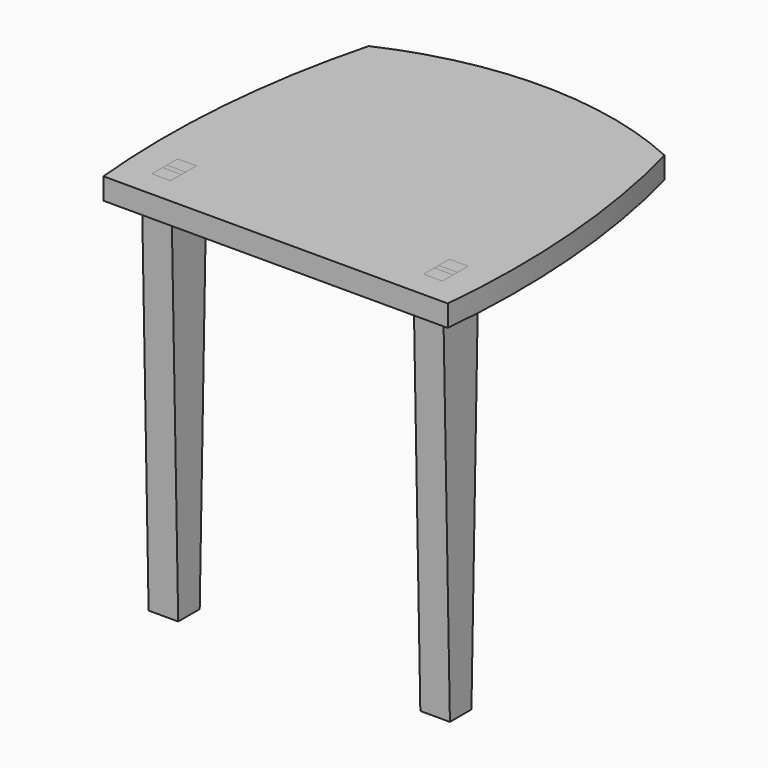
from build123d import *

# Parameters (mm, degrees)
F1_DEPTH  = 25.4
F2_W      = 34.925
F2_H      = 50.8
F3_DEPTH  = 457.2
F4_W      = 34.925
F4_H      = 50.8
F4_W_2    = 22.225
F4_H_2    = 38.1
F5_DEPTH  = 25.4
F7_DEPTH  = 22.225
F8_DEPTH  = 22.225
F10_DEPTH = 34.925


with BuildPart() as f1:
    # F0 (on Top) → F1 (new body)
    with BuildSketch(Plane.XY):
        with BuildLine():
            ThreePointArc((-174.625, 177.8), (-204.6423063303, 1.2640022944), (-203.2, -177.8))
            Line((-203.2, -177.8), (203.2, -177.8))
            ThreePointArc((203.2, -177.8), (204.6423063303, 1.2640022944), (174.625, 177.8))
            ThreePointArc((174.625, 177.8), (0, 215.9), (-174.625, 177.8))
        make_face()
    extrude(amount=-F1_DEPTH)


with BuildPart() as f3:
    # F2 (on Top) → F3 (new body)
    with BuildSketch(Plane.XY):
        with Locations((-160.3375, -127)):
            Rectangle(F2_W, F2_H)
    extrude(amount=-F3_DEPTH)

    # F4 (on face) → F5 (cut)
    with BuildSketch(Plane.XY):
        with Locations((-160.3375, -127)):
            Rectangle(F4_W, F4_H)
        with Locations((-160.3375, -127)):
            Rectangle(F4_W_2, F4_H_2, mode=Mode.SUBTRACT)
    extrude(amount=-F5_DEPTH, mode=Mode.SUBTRACT)


with BuildPart() as f7_tool:
    # F6 (on face) → F7 (new body, through all)
    with BuildSketch(Plane(origin=(-171.45, 0, 0), x_dir=(0, -1, 0), z_dir=(-1, 0, 0))):
        Polygon((123.825, 0), (127, -25.4), (130.175, 0), align=None)
    extrude(amount=-F7_DEPTH)


with BuildPart() as f1_1:
    add(f1.part)

    # F7: cut by f7_tool
    add(f7_tool.part, mode=Mode.SUBTRACT)


with BuildPart() as f3_1:
    add(f3.part)

    # F7: cut by f7_tool
    add(f7_tool.part, mode=Mode.SUBTRACT)

    # F9 (on face) → F10 (cut, through all)
    with BuildSketch(Plane(origin=(-177.8, 0, 0), x_dir=(0, -1, 0), z_dir=(-1, 0, 0))):
        Polygon((152.4, -31.75), (142.875, -457.2), (152.4, -457.2), align=None)
        Polygon((101.6, -457.2), (111.125, -457.2), (101.6, -31.75), align=None)
    extrude(amount=-F10_DEPTH, mode=Mode.SUBTRACT)


with BuildPart() as f8:
    # F6 (on face) → F8 (new body, through all)
    with BuildSketch(Plane(origin=(-171.45, 0, 0), x_dir=(0, -1, 0), z_dir=(-1, 0, 0))):
        Polygon((123.825, 0), (127, -25.4), (130.175, 0), align=None)
    extrude(amount=-F8_DEPTH)


with BuildPart() as f11_1:
    # F11: instance of F8
    add(f8.part.mirror(Plane.YZ))


with BuildPart() as f11_2:
    # F11: instance of F3
    add(f3_1.part.mirror(Plane.YZ))


with BuildPart() as f1_2:
    add(f1_1.part)

    # F12: cut F3, F11_2, F8, F11_1
    add(f3_1.part, mode=Mode.SUBTRACT)
    add(f11_2.part, mode=Mode.SUBTRACT)
    add(f8.part, mode=Mode.SUBTRACT)
    add(f11_1.part, mode=Mode.SUBTRACT)


solid = Compound([f3_1.part, f8.part, f11_1.part, f11_2.part, f1_2.part])
